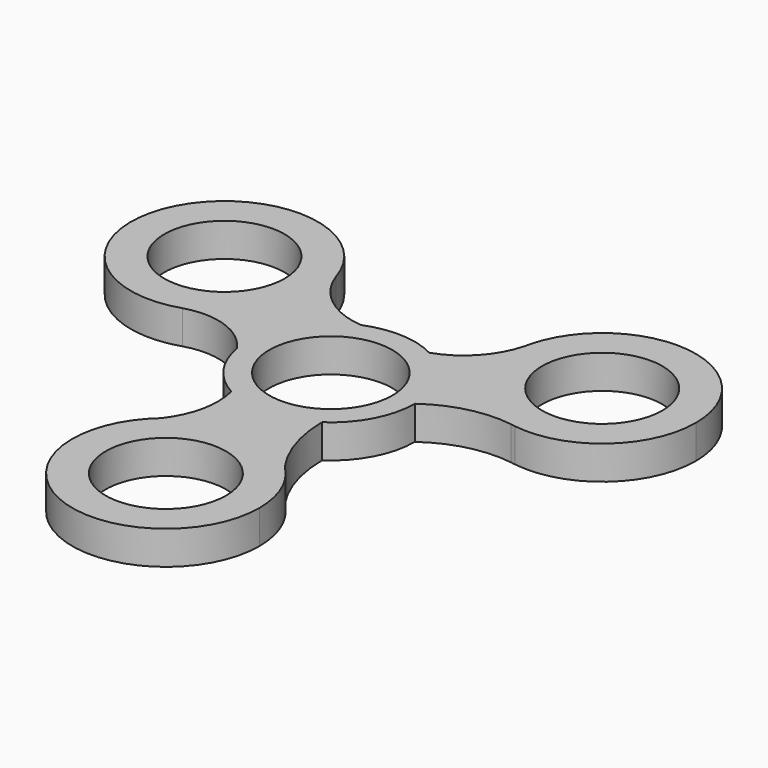
from build123d import *

# Parameters (mm, degrees)
F0_R     = 10.74466317
F0_R_2   = 11
F1_DEPTH = 6


with BuildPart() as f1:
    # F0 (on Top) → F1 (new body)
    with BuildSketch(Plane.XY):
        with BuildLine():
            ThreePointArc((-16.8233741569, 18.1647857973), (-17.0137240595, 20.6799351489), (-17.5804375602, 23.1377889189))
            ThreePointArc((-17.5804375602, 23.1377889189), (-48.3935000217, 25.8145860633), (-28.3142843523, 2.289383422))
            ThreePointArc((-28.3142843523, 2.289383422), (-19.9975447193, 8.3659412519), (-16.8233741569, 18.1647857973))
        make_face()
        with Locations((-33.5352538585, 18.1647857973)):
            Circle(F0_R, mode=Mode.SUBTRACT)
        with BuildLine():
            ThreePointArc((-14.7953536316, -2.469313855), (-13.1098736478, 7.2891160601), (-5.7103650862, 13.8705346177))
            ThreePointArc((-5.7103650862, 13.8705346177), (-13.0169474505, 16.7474006606), (-17.5804375602, 23.1377889189))
            ThreePointArc((-17.5804375602, 23.1377889189), (-17.0137240595, 20.6799351489), (-16.8233741569, 18.1647857973))
            ThreePointArc((-16.8233741569, 18.1647857973), (-19.9975447193, 8.3659412519), (-28.3142843523, 2.289383422))
            ThreePointArc((-28.3142843523, 2.289383422), (-20.7702010855, 2.1390471588), (-14.7953536316, -2.469313855))
        make_face()
        with BuildLine():
            ThreePointArc((8.3884672548, -12.4351766017), (13.2443763315, -7.0417679306), (15, 0))
            ThreePointArc((15, 0), (12.833910114, 7.764711919), (6.9612331753, 13.2868819773))
            ThreePointArc((6.9612331753, 13.2868819773), (0.6901668966, 14.9841139096), (-5.7103650862, 13.8705346177))
            ThreePointArc((-5.7103650862, 13.8705346177), (-13.1098736478, 7.2891160601), (-14.7953536316, -2.469313855))
            ThreePointArc((-14.7953536316, -2.469313855), (-12.2576572115, -8.6457989616), (-7.2908270092, -13.1089222105))
            ThreePointArc((-7.2908270092, -13.1089222105), (0.6439618106, -14.9861707313), (8.3884672548, -12.4351766017))
        make_face()
        Circle(F0_R_2, mode=Mode.SUBTRACT)
        with BuildLine():
            ThreePointArc((16.0826877207, 23.0902307774), (18.6754214777, 10.5684327575), (29.3615016394, 3.5452294455))
            ThreePointArc((29.3615016394, 3.5452294455), (29.7478170514, 3.484684072), (30.1328459127, 3.4164336823))
            ThreePointArc((30.1328459127, 3.4164336823), (43.4474800654, 7.3340959398), (49.2106725855, 19.9599888651))
            ThreePointArc((49.2106725855, 19.9599888651), (34.5994677182, 36.5393160047), (16.3150207128, 24.1280149535))
            ThreePointArc((16.3150207128, 24.1280149535), (16.208584728, 23.606944456), (16.0826877207, 23.0902307774))
        make_face()
        with Locations((32.498792884, 19.9599888651)):
            Circle(F0_R, mode=Mode.SUBTRACT)
        with BuildLine():
            ThreePointArc((6.9612331753, 13.2868819773), (12.833910114, 7.764711919), (15, 0))
            ThreePointArc((15, 0), (21.8329531222, 3.1815213335), (29.3615016394, 3.5452294455))
            ThreePointArc((29.3615016394, 3.5452294455), (18.6754214777, 10.5684327575), (16.0826877207, 23.0902307774))
            ThreePointArc((16.0826877207, 23.0902307774), (12.7517587681, 17.0442994805), (6.9612331753, 13.2868819773))
        make_face()
        with BuildLine():
            ThreePointArc((12.6840182421, -26.1405628461), (9.4897047134, -19.6158763492), (8.3884672548, -12.4351766017))
            ThreePointArc((8.3884672548, -12.4351766017), (0.6439618106, -14.9861707313), (-7.2908270092, -13.1089222105))
            ThreePointArc((-7.2908270092, -13.1089222105), (-7.1700639231, -19.6044102033), (-9.9085122444, -25.4956620888))
            ThreePointArc((-9.9085122444, -25.4956620888), (1.5133051137, -21.4196993011), (12.6840182421, -26.1405628461))
        make_face()
        with BuildLine():
            ThreePointArc((17.7483406761, -38.1247746624), (16.4302827715, -31.6196095113), (12.6840182421, -26.1405628461))
            ThreePointArc((12.6840182421, -26.1405628461), (1.5133051137, -21.4196993011), (-9.9085122444, -25.4956620888))
            ThreePointArc((-9.9085122444, -25.4956620888), (-5.9052912318, -53.3267153104), (17.7483406761, -38.1247746624))
        make_face()
        with Locations((1.0364609745, -38.1247746624)):
            Circle(F0_R, mode=Mode.SUBTRACT)
    extrude(amount=F1_DEPTH)


solid = f1.part
